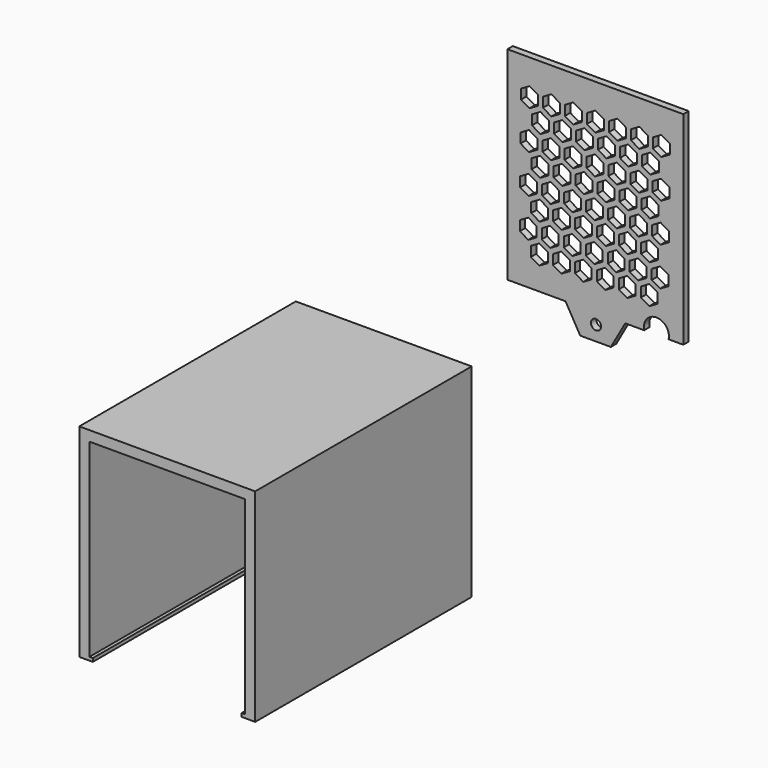
from build123d import *

# Parameters (mm, degrees)
F1_DEPTH = 80
F2_W     = 52
F2_H     = 60
F3_DEPTH = 2
F5_DEPTH = 2
F6_R     = 1.5
F7_DEPTH = 2
F9_DEPTH = 2


with BuildPart() as f1:
    # F0 (on Front) → F1 (new body)
    with BuildSketch(Plane.XZ):
        Polygon((-29.206732, -51.057696), (-25.206732, -51.057696), (-25.206732, -50.057696), (-26.206732, -50.057696), (-26.206732, 5.942304), (19.793268, 5.942304), (19.793268, -50.057696), (18.793268, -50.057696), (18.793268, -51.057696), (22.793268, -51.057696), (22.793268, 8.942304), (-29.206732, 8.942304), align=None)
    extrude(amount=F1_DEPTH)


with BuildPart() as f3:
    # F2 (on Front) → F3 (new body)
    with BuildSketch(Plane.XZ):
        with Locations((59.342861, 64.913309)):
            Rectangle(F2_W, F2_H)
    extrude(amount=-F3_DEPTH)

    # F4 (on face) → F5 (cut)
    with BuildSketch(Plane(origin=(0, 2, 0), x_dir=(-1, 0, 0), z_dir=(0, 1, 0))):
        Polygon((-78.842861, 81.639806), (-76.342861, 83.083182), (-76.342861, 85.969933), (-78.842861, 87.413309), (-81.342861, 85.969933), (-81.342861, 83.083182), align=None)
        Polygon((-69.842861, 83.083182), (-69.842861, 85.969933), (-72.342861, 87.413309), (-74.842861, 85.969933), (-74.842861, 83.083182), (-72.342861, 81.639806), align=None)
        Polygon((-63.342861, 83.083182), (-63.342861, 85.969933), (-65.842861, 87.413309), (-68.342861, 85.969933), (-68.342861, 83.083182), (-65.842861, 81.639806), align=None)
        Polygon((-56.842861, 83.083182), (-56.842861, 85.969933), (-59.342861, 87.413309), (-61.842861, 85.969933), (-61.842861, 83.083182), (-59.342861, 81.639806), align=None)
        Polygon((-50.342861, 83.083182), (-50.342861, 85.969933), (-52.842861, 87.413309), (-55.342861, 85.969933), (-55.342861, 83.083182), (-52.842861, 81.639806), align=None)
        Polygon((-43.842861, 83.083182), (-43.842861, 85.969933), (-46.342861, 87.413309), (-48.842861, 85.969933), (-48.842861, 83.083182), (-46.342861, 81.639806), align=None)
        Polygon((-37.342861, 83.083182), (-37.342861, 85.969933), (-39.842861, 87.413309), (-42.342861, 85.969933), (-42.342861, 83.083182), (-39.842861, 81.639806), align=None)
        Polygon((-73.110507, 77.443866), (-73.110507, 80.330617), (-75.610507, 81.773993), (-78.110507, 80.330617), (-78.110507, 77.443866), (-75.610507, 76.00049), align=None)
        Polygon((-66.610507, 77.443866), (-66.610507, 80.330617), (-69.110507, 81.773993), (-71.610507, 80.330617), (-71.610507, 77.443866), (-69.110507, 76.00049), align=None)
        Polygon((-60.110507, 77.443866), (-60.110507, 80.330617), (-62.610507, 81.773993), (-65.110507, 80.330617), (-65.110507, 77.443866), (-62.610507, 76.00049), align=None)
        Polygon((-53.610507, 77.443866), (-53.610507, 80.330617), (-56.110507, 81.773993), (-58.610507, 80.330617), (-58.610507, 77.443866), (-56.110507, 76.00049), align=None)
        Polygon((-47.110507, 77.443866), (-47.110507, 80.330617), (-49.610507, 81.773993), (-52.110507, 80.330617), (-52.110507, 77.443866), (-49.610507, 76.00049), align=None)
        Polygon((-40.610507, 77.443866), (-40.610507, 80.330617), (-43.110507, 81.773993), (-45.610507, 80.330617), (-45.610507, 77.443866), (-43.110507, 76.00049), align=None)
        Polygon((-68.232354, 71.639316), (-65.732354, 70.19594), (-63.232354, 71.639316), (-63.232354, 74.526067), (-65.732354, 75.969443), (-68.232354, 74.526067), align=None)
        Polygon((-81.232354, 71.639316), (-78.732354, 70.19594), (-76.232354, 71.639316), (-76.232354, 74.526067), (-78.732354, 75.969443), (-81.232354, 74.526067), align=None)
        Polygon((-45.5, 66), (-43, 64.556624), (-40.5, 66), (-40.5, 68.886751), (-43, 70.330127), (-45.5, 68.886751), align=None)
        Polygon((-73, 66), (-73, 68.886751), (-75.5, 70.330127), (-78, 68.886751), (-78, 66), (-75.5, 64.556624), align=None)
        Polygon((-56, 70.330127), (-58.5, 68.886751), (-58.5, 66), (-56, 64.556624), (-53.5, 66), (-53.5, 68.886751), align=None)
        Polygon((-71.5, 66), (-69, 64.556624), (-66.5, 66), (-66.5, 68.886751), (-69, 70.330127), (-71.5, 68.886751), align=None)
        Polygon((-42.232354, 71.639316), (-39.732354, 70.19594), (-37.232354, 71.639316), (-37.232354, 74.526067), (-39.732354, 75.969443), (-42.232354, 74.526067), align=None)
        Polygon((-55.232354, 74.526067), (-55.232354, 71.639316), (-52.732354, 70.19594), (-50.232354, 71.639316), (-50.232354, 74.526067), (-52.732354, 75.969443), align=None)
        Polygon((-56.732354, 74.526067), (-59.232354, 75.969443), (-61.732354, 74.526067), (-61.732354, 71.639316), (-59.232354, 70.19594), (-56.732354, 71.639316), align=None)
        Polygon((-60, 66), (-60, 68.886751), (-62.5, 70.330127), (-65, 68.886751), (-65, 66), (-62.5, 64.556624), align=None)
        Polygon((-49.5, 70.330127), (-52, 68.886751), (-52, 66), (-49.5, 64.556624), (-47, 66), (-47, 68.886751), align=None)
        Polygon((-46.232354, 75.969443), (-48.732354, 74.526067), (-48.732354, 71.639316), (-46.232354, 70.19594), (-43.732354, 71.639316), (-43.732354, 74.526067), align=None)
        Polygon((-74.732354, 71.639316), (-72.232354, 70.19594), (-69.732354, 71.639316), (-69.732354, 74.526067), (-72.232354, 75.969443), (-74.732354, 74.526067), align=None)
        Polygon((-68.121848, 60.19545), (-65.621848, 58.752074), (-63.121848, 60.19545), (-63.121848, 63.082201), (-65.621848, 64.525577), (-68.121848, 63.082201), align=None)
        Polygon((-81.121848, 60.19545), (-78.621848, 58.752074), (-76.121848, 60.19545), (-76.121848, 63.082201), (-78.621848, 64.525577), (-81.121848, 63.082201), align=None)
        Polygon((-45.389493, 54.556134), (-42.889493, 53.112758), (-40.389493, 54.556134), (-40.389493, 57.442885), (-42.889493, 58.886261), (-45.389493, 57.442885), align=None)
        Polygon((-72.889493, 54.556134), (-72.889493, 57.442885), (-75.389493, 58.886261), (-77.889493, 57.442885), (-77.889493, 54.556134), (-75.389493, 53.112758), align=None)
        Polygon((-55.889493, 58.886261), (-58.389493, 57.442885), (-58.389493, 54.556134), (-55.889493, 53.112758), (-53.389493, 54.556134), (-53.389493, 57.442885), align=None)
        Polygon((-71.389493, 54.556134), (-68.889493, 53.112758), (-66.389493, 54.556134), (-66.389493, 57.442885), (-68.889493, 58.886261), (-71.389493, 57.442885), align=None)
        Polygon((-42.121848, 60.19545), (-39.621848, 58.752074), (-37.121848, 60.19545), (-37.121848, 63.082201), (-39.621848, 64.525577), (-42.121848, 63.082201), align=None)
        Polygon((-55.121848, 63.082201), (-55.121848, 60.19545), (-52.621848, 58.752074), (-50.121848, 60.19545), (-50.121848, 63.082201), (-52.621848, 64.525577), align=None)
        Polygon((-56.621848, 63.082201), (-59.121848, 64.525577), (-61.621848, 63.082201), (-61.621848, 60.19545), (-59.121848, 58.752074), (-56.621848, 60.19545), align=None)
        Polygon((-59.889493, 54.556134), (-59.889493, 57.442885), (-62.389493, 58.886261), (-64.889493, 57.442885), (-64.889493, 54.556134), (-62.389493, 53.112758), align=None)
        Polygon((-49.389493, 58.886261), (-51.889493, 57.442885), (-51.889493, 54.556134), (-49.389493, 53.112758), (-46.889493, 54.556134), (-46.889493, 57.442885), align=None)
        Polygon((-46.121848, 64.525577), (-48.621848, 63.082201), (-48.621848, 60.19545), (-46.121848, 58.752074), (-43.621848, 60.19545), (-43.621848, 63.082201), align=None)
        Polygon((-74.621848, 60.19545), (-72.121848, 58.752074), (-69.621848, 60.19545), (-69.621848, 63.082201), (-72.121848, 64.525577), (-74.621848, 63.082201), align=None)
        Polygon((-68.011341, 48.751584), (-65.511341, 47.308209), (-63.011341, 48.751584), (-63.011341, 51.638336), (-65.511341, 53.081711), (-68.011341, 51.638336), align=None)
        Polygon((-81.011341, 48.751584), (-78.511341, 47.308209), (-76.011341, 48.751584), (-76.011341, 51.638336), (-78.511341, 53.081711), (-81.011341, 51.638336), align=None)
        Polygon((-45.278987, 43.112268), (-42.778987, 41.668893), (-40.278987, 43.112268), (-40.278987, 45.99902), (-42.778987, 47.442395), (-45.278987, 45.99902), align=None)
        Polygon((-72.778987, 43.112268), (-72.778987, 45.99902), (-75.278987, 47.442395), (-77.778987, 45.99902), (-77.778987, 43.112268), (-75.278987, 41.668893), align=None)
        Polygon((-55.778987, 47.442395), (-58.278987, 45.99902), (-58.278987, 43.112268), (-55.778987, 41.668893), (-53.278987, 43.112268), (-53.278987, 45.99902), align=None)
        Polygon((-71.278987, 43.112268), (-68.778987, 41.668893), (-66.278987, 43.112268), (-66.278987, 45.99902), (-68.778987, 47.442395), (-71.278987, 45.99902), align=None)
        Polygon((-42.011341, 48.751584), (-39.511341, 47.308209), (-37.011341, 48.751584), (-37.011341, 51.638336), (-39.511341, 53.081711), (-42.011341, 51.638336), align=None)
        Polygon((-55.011341, 51.638336), (-55.011341, 48.751584), (-52.511341, 47.308209), (-50.011341, 48.751584), (-50.011341, 51.638336), (-52.511341, 53.081711), align=None)
        Polygon((-56.511341, 51.638336), (-59.011341, 53.081711), (-61.511341, 51.638336), (-61.511341, 48.751584), (-59.011341, 47.308209), (-56.511341, 48.751584), align=None)
        Polygon((-59.778987, 43.112268), (-59.778987, 45.99902), (-62.278987, 47.442395), (-64.778987, 45.99902), (-64.778987, 43.112268), (-62.278987, 41.668893), align=None)
        Polygon((-49.278987, 47.442395), (-51.778987, 45.99902), (-51.778987, 43.112268), (-49.278987, 41.668893), (-46.778987, 43.112268), (-46.778987, 45.99902), align=None)
        Polygon((-46.011341, 53.081711), (-48.511341, 51.638336), (-48.511341, 48.751584), (-46.011341, 47.308209), (-43.511341, 48.751584), (-43.511341, 51.638336), align=None)
        Polygon((-74.511341, 48.751584), (-72.011341, 47.308209), (-69.511341, 48.751584), (-69.511341, 51.638336), (-72.011341, 53.081711), (-74.511341, 51.638336), align=None)
    extrude(amount=-F5_DEPTH, mode=Mode.SUBTRACT)

    # F6 (on Front) → F7 (join)
    with BuildSketch(Plane.XZ):
        Polygon((54.873159, 27.37009), (63.928498, 27.37009), (68.34549, 35.212244), (50.34549, 35.212244), align=None)
        with Locations((59.540547, 31.742692)):
            Circle(F6_R, mode=Mode.SUBTRACT)
    extrude(amount=-F7_DEPTH)

    # F8 (on face) → F9 (cut)
    with BuildSketch(Plane(origin=(0, 2, 0), x_dir=(-1, 0, 0), z_dir=(0, 1, 0))):
        with BuildLine():
            Line((-80.994389, 34.913309), (-73.774983, 34.913309))
            ThreePointArc((-73.774983, 34.913309), (-77.384686, 39.431283), (-80.994389, 34.913309))
        make_face()
    extrude(amount=-F9_DEPTH, mode=Mode.SUBTRACT)


solid = Compound([f1.part, f3.part])
